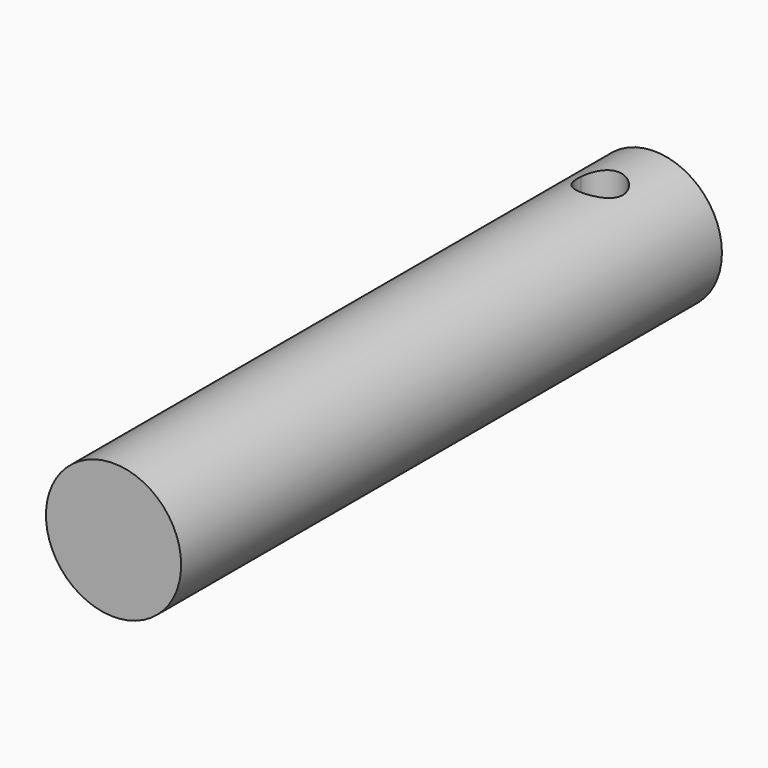
from build123d import *

# Parameters (mm, degrees)
F0_R     = 15
F1_DEPTH = 150
F3_DEPTH = 19.9


with BuildPart() as f1:
    # F0 (on Front) → F1 (new body)
    with BuildSketch(Plane.XZ):
        Circle(F0_R)
        Circle(F0_R)
    extrude(amount=F1_DEPTH)

    # F2 (on Top) → F3 (cut, symmetric)
    with BuildSketch(Plane.XY):
        with BuildLine():
            ThreePointArc((4.9300664859, -14.1666666667), (0, -15), (-4.9300664859, -14.1666666667))
            ThreePointArc((-4.9300664859, -14.1666666667), (-0.4181313014, -19.9824859473), (5, -15))
            ThreePointArc((5, -15), (4.9824859473, -14.5818686986), (4.9300664859, -14.1666666667))
        make_face()
        with BuildLine():
            ThreePointArc((4.9300664859, -14.1666666667), (0, -10), (-4.9300664859, -14.1666666667))
            ThreePointArc((-4.9300664859, -14.1666666667), (0, -15), (4.9300664859, -14.1666666667))
        make_face()
    extrude(amount=F3_DEPTH, both=True, mode=Mode.SUBTRACT)


solid = f1.part
